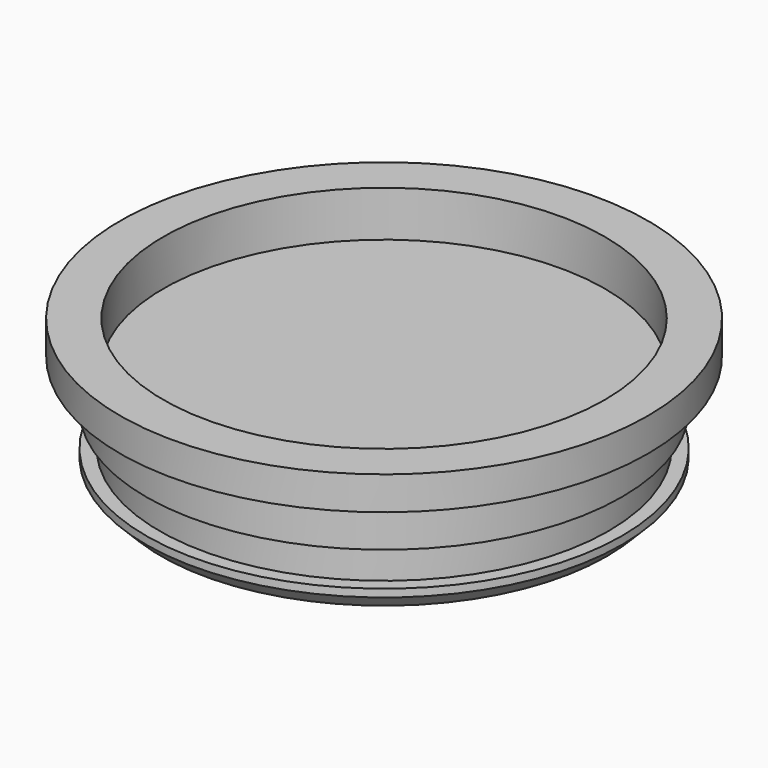
from build123d import *


with BuildPart() as f1:
    # F0 (on Front) → F1 (revolve)
    with BuildSketch(Plane.XZ):
        Polygon((36.83, -7.62), (0, -7.62), (0, -11.43), (34.925, -11.43), (34.925, -22.86), (37.173028, -22.86), (39.6875, -20.345528), (39.6875, -19.05), (37.465, -19.05), (37.465, -13.335), (39.6875, -13.335), (39.6875, -5.5626), (44.0309, -5.5626), (44.0309, 0), (36.83, 0), align=None)
    revolve(axis=Axis((0, 0, -3.81), (0, 0, 1)))


solid = f1.part
